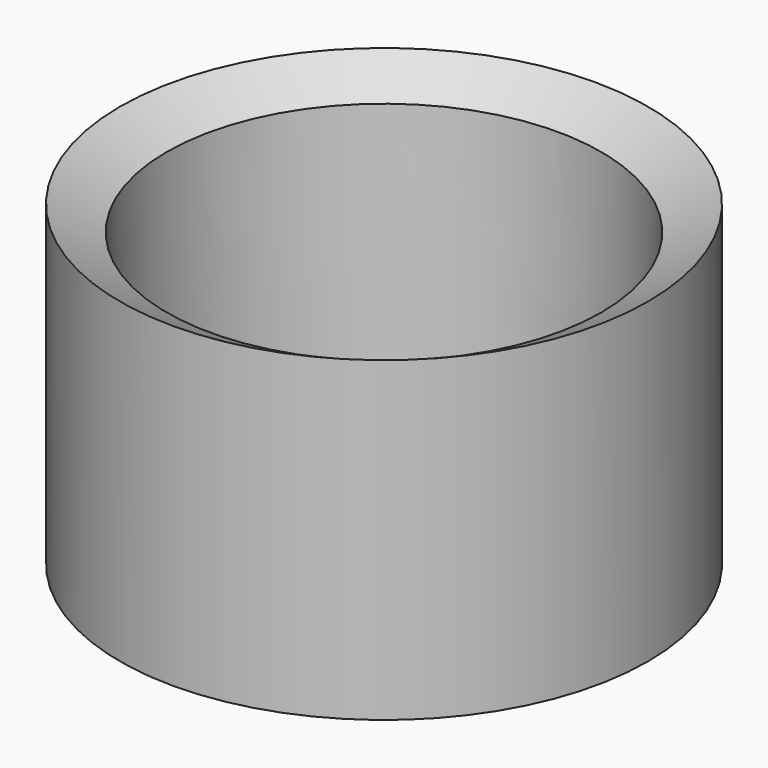
from build123d import *

# Parameters (mm, degrees)
F3_R     = 9.525
F4_DEPTH = 76.201


with BuildPart() as f2:
    # F1 (on Front) → F2 (revolve)
    with BuildSketch(Plane.XZ):
        Polygon((-52.284431, 70.241727), (-63.5, 76.2), (-63.5, 0), (0, 0), (0, 6.35), (-50.8, 6.35), align=None)
    revolve(axis=Axis((0, 0, 35.443861), (0, 0, 1)))

    # F3 (on face) → F4 (cut, through all)
    with BuildSketch(Plane(origin=(0, 0, 0), x_dir=(1, 0, 0), z_dir=(0, 0, -1))):
        Circle(F3_R)
    extrude(amount=-F4_DEPTH, mode=Mode.SUBTRACT)


solid = f2.part
